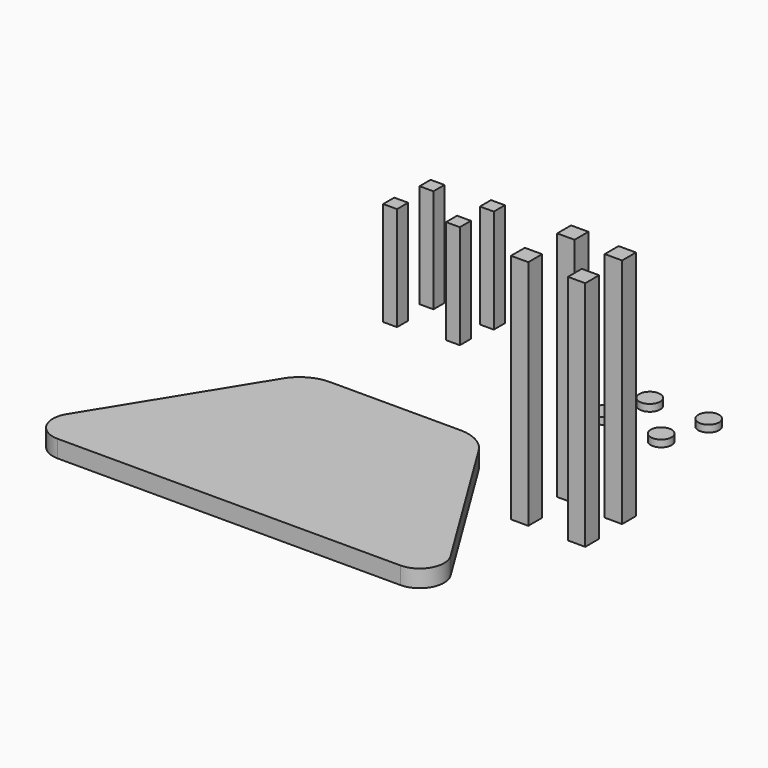
from build123d import *

# Parameters (mm, degrees)
F1_DEPTH = 6.35
F2_W     = 6.35
F2_H     = 6.35
F3_DEPTH = 85.09
F4_W     = 5.08
F4_H     = 5.08
F5_DEPTH = 38.1
F6_R     = 3.81
F7_DEPTH = 2.54


with BuildPart() as f1:
    # F0 (on Top) → F1 (new body)
    with BuildSketch(Plane.XY):
        with BuildLine():
            Line((-63.5, -76.2), (-63.5, -2.378866))
            ThreePointArc((-63.5, -2.378866), (-65.774133, -4.289297), (-67.593005, -6.637305))
            Line((-67.593005, -6.637305), (-102.130306, -62.643739))
            ThreePointArc((-102.130306, -62.643739), (-102.325972, -71.642958), (-94.563397, -76.2))
            Line((-94.563397, -76.2), (-63.5, -76.2))
        make_face()
        with BuildLine():
            Line((-7.797852, 0), (-55.702148, 0))
            ThreePointArc((-55.702148, 0), (-59.778467, -0.607945), (-63.5, -2.378866))
            Line((-63.5, -2.378866), (-63.5, -76.2))
            Line((-63.5, -76.2), (0, -76.2))
            Line((0, -76.2), (0, -2.378866))
            ThreePointArc((0, -2.378866), (-3.721533, -0.607945), (-7.797852, 0))
        make_face()
        with BuildLine():
            ThreePointArc((4.093005, -6.637305), (2.274133, -4.289297), (0, -2.378866))
            Line((0, -2.378866), (0, -76.2))
            Line((0, -76.2), (31.063397, -76.2))
            ThreePointArc((31.063397, -76.2), (38.825972, -71.642958), (38.630306, -62.643739))
            Line((38.630306, -62.643739), (4.093005, -6.637305))
        make_face()
    extrude(amount=F1_DEPTH)


with BuildPart() as f3:
    # F2 (on Top) → F3 (new body)
    with BuildSketch(Plane.XY):
        with Locations((35.184462, -2.343281)):
            Rectangle(F2_W, F2_H)
        with Locations((53.830995, -3.863306)):
            Rectangle(F2_W, F2_H)
        with Locations((33.524612, -21.462166)):
            Rectangle(F2_W, F2_H)
        with Locations((54.411175, -21.462167)):
            Rectangle(F2_W, F2_H)
    extrude(amount=F3_DEPTH)


with BuildPart() as f5:
    # F4 (on Top) → F5 (new body)
    with BuildSketch(Plane.XY):
        with Locations((-72.121397, 50.605938)):
            Rectangle(F4_W, F4_H)
        with Locations((-51.074278, 53.082071)):
            Rectangle(F4_W, F4_H)
        with Locations((-70.883326, 65.730097)):
            Rectangle(F4_W, F4_H)
        with Locations((-49.526695, 66.700794)):
            Rectangle(F4_W, F4_H)
    extrude(amount=F5_DEPTH)


with BuildPart() as f7:
    # F6 (on Top) → F7 (new body)
    with BuildSketch(Plane.XY):
        with Locations((38.530488, 55.726297)):
            Circle(F6_R)
        with Locations((12.390179, 40.788982)):
            Circle(F6_R)
        with Locations((33.675861, 40.042114)):
            Circle(F6_R)
        with Locations((17.328855, 55.248685)):
            Circle(F6_R)
    extrude(amount=F7_DEPTH)


solid = Compound([f1.part, f3.part, f5.part, f7.part])
